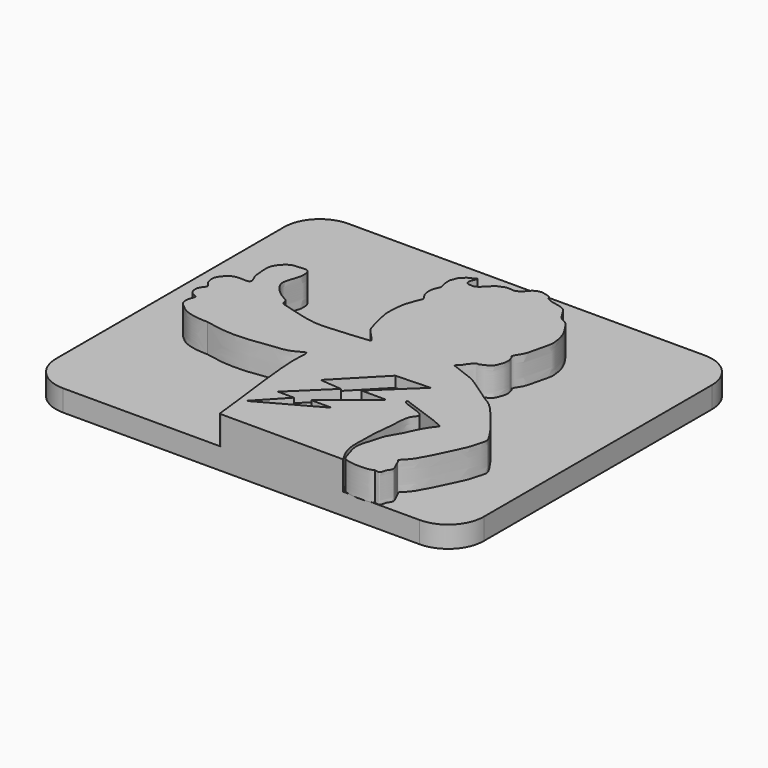
from build123d import *

# Parameters (mm, degrees)
F1_DEPTH = 4
F3_DEPTH = 3
F5_DEPTH = 1.5


with BuildPart() as f1:
    # F0 (on Top) → F1 (new body)
    with BuildSketch(Plane.XY):
        with BuildLine():
            add(Edge.make_bspline(
                [(8.3256214857, 16.1702055484), (9.1372899139, 16.0022376257), (10.6917989975, 15.6805451063), (12.7828301268, 15.6157811392), (14.5819382962, 15.7027804812), (17.1772456989, 16.1388582351), (19.8285219404, 16.2505230153), (21.5966118989, 17.6877234302), (21.3640518656, 15.9866735878), (21.3940967994, 13.2201167825), (22.1733937937, 6.7676869486), (22.9362513914, 0.6054056477), (22.9529260914, 0.1747299981), (22.9858116283, 0.0251948702), (23.1223912874, 0.0092315025), (23.2013743371, 0)],
                knots=[0, 0, 0, 0, 0.086922588, 0.1664743237, 0.2407174416, 0.3308107649, 0.4247578045, 0.4935236529, 0.5483867695, 0.6413267237, 0.7900671598, 0.9254800491, 0.9565368091, 0.9748655445, 1, 1, 1, 1], degree=3))
            Line((23.2013743371, 0), (40.30354321, 0))
            add(Edge.make_bspline(
                [(40.30354321, 0), (40.0617485314, 0.4098515486), (39.5745478273, 1.2356760215), (39.0729504269, 2.6859975003), (39.1124327203, 4.5756977513), (39.1339629917, 7.5602046045), (39.5680650283, 10.0737460521), (39.4678912104, 12.4685580628), (41.0922508516, 13.6079659456), (37.6288707212, 14.5292087433), (37.1937741543, 14.8590369973), (37.0531216302, 15.342440968), (38.7714837565, 14.6358230319), (44.1306535924, 12.8249569107), (43.3352214155, 12.4350150213), (42.0157821278, 10.220090913), (41.6651686435, 9.0231262239), (40.4636516832, 7.2288136647), (40.3178155939, 6.4553649985), (39.9669823095, 5.2301640799), (39.1966680045, 3.2132312147), (40.1762471592, 1.1116492054), (40.2361859188, -0.2310718079), (43.9708096803, -0.2819789075), (44.6459427476, 0.1513924799)],
                knots=[0, 0, 0, 0, 0.0258340904, 0.0520540282, 0.0817135034, 0.1190150916, 0.1544166334, 0.1873221119, 0.2096910329, 0.2461709091, 0.2631459031, 0.2730061755, 0.3006475831, 0.3504606005, 0.3627402449, 0.3969563846, 0.4234346769, 0.4540572292, 0.4732669323, 0.4970674239, 0.5286411734, 0.5606643223, 0.5833066407, 0.6264587109, 0.6264587109, 0.6264587109, 0.6264587109], degree=3))
            add(Edge.make_bspline(
                [(44.6459427476, 0.1513924799), (44.9351130393, 0.0908339854), (45.5152538124, -0.0306600023), (45.5107450341, 0.9128355869), (46.2585817948, 1.5992068693), (45.5993326956, 2.5639872467), (45.3373287162, 3.4554646107), (44.9945487664, 3.6219528223), (45.606217184, 4.1117617617), (46.2885333226, 4.9791566034), (46.5554253171, 5.449968284), (47.3303988636, 6.7724500157), (48.418075503, 9.1803120164), (49.2183889124, 10.7680034124), (49.3744467638, 11.5228204967), (49.6492518921, 12.3722239617), (49.8026126637, 12.9095404762), (49.8367570806, 13.3407704814), (49.7485277083, 13.7100721467), (48.9994920188, 14.8800820293), (47.9531814675, 16.376103065), (44.8083246509, 20.2523439292), (43.5720791436, 20.7410040508), (40.113736919, 23.3605163511), (38.4247601331, 24.0766974076), (36.1455855523, 24.9016388289), (35.8803577107, 25.0085344818), (36.065840461, 25.1977934043), (36.595791637, 25.7034025368), (36.7770597069, 26.1517893474), (37.20211617, 26.5798926773), (37.3740799453, 26.8457986526), (37.5814426806, 26.934102882), (37.8805778278, 26.8388644422), (38.4082167379, 27.1416853428), (39.3284789479, 27.5110910697), (39.5622029352, 28.3273409238), (39.7848414403, 28.7524568164), (39.9105530354, 29.6277384148), (39.7477934466, 30.0430053177), (39.6117490473, 30.4822124862), (39.4245236879, 30.5218079617), (39.4823225623, 30.7491979649), (39.5532634875, 31.0431081671), (40.2483397548, 31.9287195283), (40.5032873341, 33.4506149312), (41.1208707236, 35.5727089452), (41.0324007969, 36.3184581412), (40.7987125695, 38.0635831606), (39.6497489325, 39.7934858492), (39.0119547906, 40.641939023), (38.2601985433, 40.8840613036), (37.9109479652, 41.2737460631), (37.3439988502, 42.1312045901), (37.0994843725, 42.6946108063), (36.5735906004, 43.0287554325), (36.1287603339, 43.2109856404), (34.9089574657, 43.3894751871), (33.9925544537, 43.7601645602), (33.9718893961, 44.2469133312), (32.963899123, 44.4699857291), (32.4597401242, 44.6143165382), (31.4598615215, 44.2546331456), (31.1449043948, 43.6977683985), (30.1864852485, 42.8558635991), (29.5272065249, 43.0126512892), (28.533435567, 42.9996677877), (28.1405707121, 42.6477746684), (27.5021184369, 42.5828485011), (27.3282853969, 42.0958527335), (26.7827084486, 41.5954292084), (26.0338670622, 40.948037527), (25.5410909516, 40.9596628414), (24.9964965162, 41.0077950705), (24.7431658297, 41.1700918616), (24.6800730081, 41.7238993558), (24.9328952645, 42.092404657), (24.9949956666, 42.3976552633), (25.1621820652, 42.6793030968), (24.79383274, 42.6115353133), (24.4956573079, 42.2984355131), (24.0088780051, 42.1865645829), (23.6674100819, 41.7760631647), (23.1603249486, 41.3191305943), (23.1528188765, 40.909414848), (22.8412790168, 40.4022513131), (22.9332481448, 39.9089275375), (22.9415426078, 39.3636660287), (23.2245659863, 38.6844581986), (23.1129742744, 38.4451530706), (22.7997986452, 37.8109253803), (22.720875183, 37.1904405538), (22.6964786365, 36.1403340959), (23.5669081629, 35.1936883652), (23.1524525771, 34.7230189827), (22.8103253541, 33.4854910907), (22.5132357159, 32.8735049375), (22.3165853308, 30.6415440255), (22.3824047894, 29.4788550829), (23.1419542547, 26.5170302325), (23.4660364303, 25.6620312839), (25.4620480476, 23.8659585147), (24.566362643, 23.8004638797), (23.4262084274, 23.6842947863), (22.6312726736, 23.6032996327)],
                knots=[0, 0, 0, 0, 0.0092588719, 0.0185753837, 0.0287431072, 0.0399098643, 0.0504479491, 0.0555578315, 0.0642150857, 0.0758899339, 0.0838399667, 0.0969769042, 0.1151959333, 0.129592732, 0.1390602909, 0.1492266292, 0.1574644009, 0.1643229113, 0.1708359125, 0.1829430619, 0.1986564113, 0.2223624283, 0.235929866, 0.2577755354, 0.2740704493, 0.290400318, 0.2948607741, 0.2996063043, 0.3089610306, 0.3167907008, 0.3251270648, 0.3312029475, 0.3359954632, 0.3416927167, 0.3500601636, 0.3608104603, 0.3703788477, 0.3781378296, 0.3880786421, 0.3956351237, 0.4026798754, 0.4067277972, 0.4113530735, 0.4172983002, 0.4283107369, 0.4423992715, 0.458313114, 0.4677778648, 0.4819243915, 0.4978029183, 0.5089051025, 0.518045702, 0.5259279125, 0.5368909834, 0.545554116, 0.5537113224, 0.5612946422, 0.5735450675, 0.5839727951, 0.5906086881, 0.6010362498, 0.6093799965, 0.6199259975, 0.6289528063, 0.6406504467, 0.6495846012, 0.6601057792, 0.6679946884, 0.6761421462, 0.6834612797, 0.6929709976, 0.7036425239, 0.7112139481, 0.7190942879, 0.7247376772, 0.7324459467, 0.7396868244, 0.7459860796, 0.7510049625, 0.756294635, 0.763634108, 0.7710912551, 0.7790929089, 0.7878645109, 0.7946883751, 0.8028176109, 0.8103482422, 0.8185993062, 0.8276194254, 0.8330822867, 0.8419639059, 0.8507473468, 0.8618241867, 0.8733004912, 0.8811381159, 0.8931632557, 0.9027120657, 0.9183642989, 0.9311902118, 0.9495024624, 0.9615144389, 0.9773808452, 0.9842295238, 1, 1, 1, 1], degree=3))
            add(Edge.make_bspline(
                [(22.6312726736, 23.6032996327), (21.8645276885, 23.5505549498), (20.2628182524, 23.4403727408), (17.4881257999, 23.1652007886), (14.303941332, 24.1328892787), (12.2646266685, 24.6187151298), (11.9513498409, 24.8944349281), (11.9314471929, 25.6259011658), (11.1315498447, 25.8525268076), (9.587229052, 27.0332677088), (8.989081301, 28.1185252979), (8.8895427504, 28.8626198075), (9.3727771712, 30.3198969972), (9.6761915455, 31.1417523528), (9.5318797499, 32.8388753869), (8.1092955345, 32.5169750734), (7.1855514904, 32.5722760088), (6.2701068235, 31.9564484339), (5.3150104887, 30.7414547128), (5.5224058234, 29.0114699009), (5.537333185, 27.8053480069), (6.2388100301, 26.8309659387), (5.7756294358, 26.3887289888), (5.0810560643, 26.5249824151), (3.6533961674, 26.4882585753), (2.8260840018, 25.6274013345), (2.2064167161, 24.7855046286), (2.4643369156, 23.3249205105), (3.4024718553, 22.8263987873), (2.2587517151, 21.9377171286), (2.5454072443, 20.2987781876), (3.8094383459, 20.1530686984), (3.3485468594, 19.414360495), (3.1905048687, 18.1656341453), (3.9185322064, 17.5182584768), (4.9415433388, 16.6104497113), (6.8910214878, 16.2018954921), (7.8727282697, 16.1802098427), (8.3256214857, 16.1702055484)],
                knots=[0, 0, 0, 0, 0.0386452613, 0.0807289007, 0.1278575303, 0.1632324508, 0.1779858957, 0.1973698916, 0.2192439943, 0.2546090279, 0.2823412091, 0.3037958913, 0.3342780915, 0.3595835392, 0.3884088496, 0.4154696442, 0.4400383765, 0.4656680842, 0.4962963342, 0.5289983874, 0.5573786228, 0.5829995057, 0.5994617028, 0.620352107, 0.6499886348, 0.6769937046, 0.7023777551, 0.7318517571, 0.7534614274, 0.7798097979, 0.8097890329, 0.8337138224, 0.8535053856, 0.8811759761, 0.9049969054, 0.9343210044, 0.9697001466, 1, 1, 1, 1], degree=3))
        make_face()
    extrude(amount=F1_DEPTH)

    # F2 (on Top) → F3 (join)
    with BuildSketch(Plane.XY):
        with BuildLine():
            Line((51.046701388, 50), (1.046701388, 50))
            ThreePointArc((1.046701388, 50), (-2.488832518, 48.5355339059), (-3.953298612, 45))
            Line((-3.953298612, 45), (-3.953298612, 5))
            ThreePointArc((-3.953298612, 5), (-2.488832518, 1.4644660941), (1.046701388, 0))
            Line((1.046701388, 0), (51.046701388, 0))
            ThreePointArc((51.046701388, 0), (54.5822352939, 1.4644660941), (56.046701388, 5))
            Line((56.046701388, 5), (56.046701388, 45))
            ThreePointArc((56.046701388, 45), (54.5822352939, 48.5355339059), (51.046701388, 50))
        make_face()
    extrude(amount=-F3_DEPTH)

    # F4 (on face) → F5 (cut)
    with BuildSketch(Plane.XY.offset(4)):
        Polygon((37.2104719281, 19.2402526736), (32.3722474277, 19.0686825663), (26.6304239631, 13.1667312235), (29.6729039401, 12.892222032), (24.7088596225, 8.0654313788), (26.9735623151, 8.0654313788), (23.3363118023, 4.1765491478), (31.6859707236, 8.7745813653), (28.8264993578, 8.7745813653), (35.1745299995, 13.9902597293), (31.6859707236, 13.9902597293), align=None)
    extrude(amount=-F5_DEPTH, mode=Mode.SUBTRACT)


solid = f1.part
